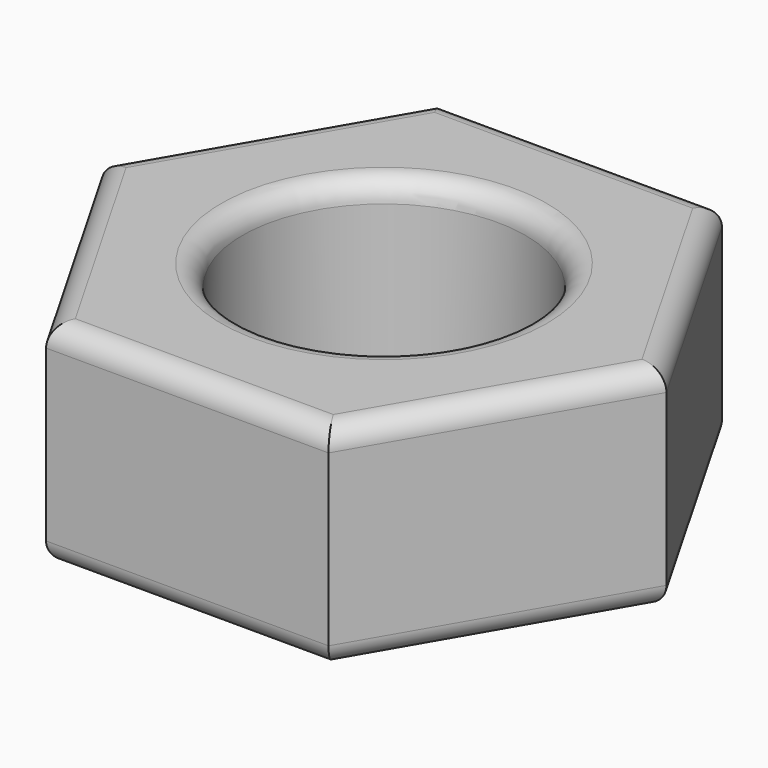
from build123d import *

# Parameters (mm, degrees)
F0_R     = 2
F1_DEPTH = 3
F2_R     = 0.3
F3_R     = 0.3


with BuildPart() as f1:
    # F0 (on Top) → F1 (new body)
    with BuildSketch(Plane.XY):
        Polygon((3.999987, -0.010358), (2.008964, 3.458911), (-1.991023, 3.469269), (-3.999987, 0.010358), (-2.008964, -3.458911), (1.991023, -3.469269), align=None)
        Circle(F0_R, mode=Mode.SUBTRACT)
    extrude(amount=F1_DEPTH)

    # F2
    f2_edges = [f1.edges().sort_by_distance(p)[0] for p in [
        (3.004475, 1.724276, 3),
        (0.00897, 3.46409, 3),
        (-2.995505, 1.739814, 3),
        (-3.004475, -1.724276, 3),
        (-0.00897, -3.46409, 3),
        (2.995505, -1.739814, 3),
        (-2, 0, 3),
    ]]
    fillet(f2_edges, radius=F2_R)

    # F3
    f3_edges = [f1.edges().sort_by_distance(p)[0] for p in [
        (3.004475, 1.724276, 0),
        (0.00897, 3.46409, 0),
        (-2.995505, 1.739814, 0),
        (-3.004475, -1.724276, 0),
        (-0.00897, -3.46409, 0),
        (2.995505, -1.739814, 0),
        (-2, 0, 0),
    ]]
    fillet(f3_edges, radius=F3_R)


solid = f1.part
